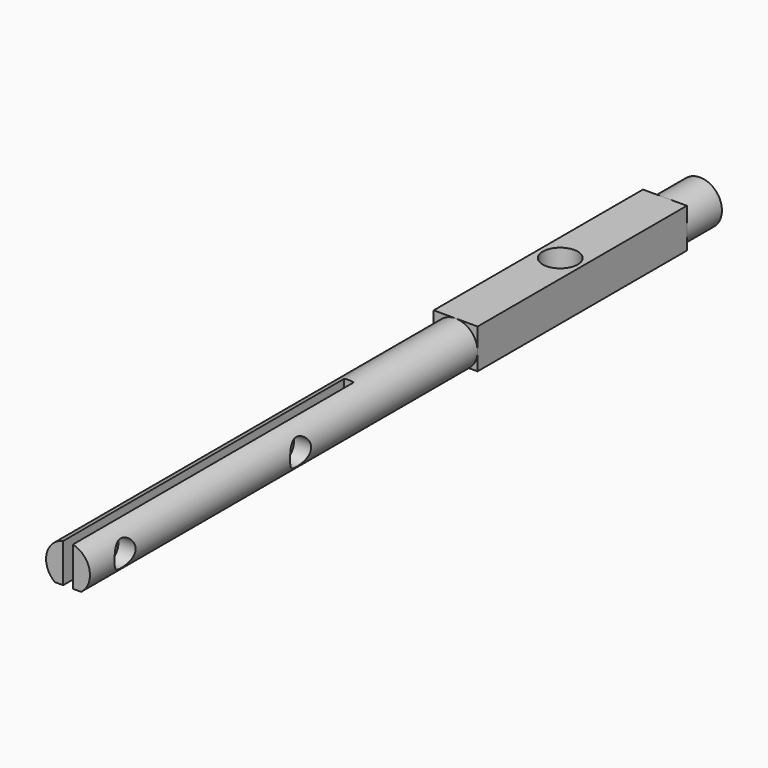
from build123d import *

# Parameters (mm, degrees)
PAD_DEPTH            = 90
SKETCH004_W          = 5
SKETCH004_H          = 29.8
PAD001_DEPTH         = 4.5
SKETCH001_R          = 2
POCKET_DEPTH         = 4.501
SKETCH005_W          = 1.1
SKETCH005_H          = 40
POCKET001_DEPTH      = 4.501
SKETCH006_R          = 1.5
POCKET002_DEPTH      = 1.951
POCKET002_DEPTH_BACK = -3.051
SKETCH007_R          = 2
POCKET003_DEPTH      = 5


with BuildPart() as part:
    # Sketch → Pad (new body)
    with BuildSketch(Plane.XZ):
        with BuildLine():
            Line((-1.5, 0), (1.5, 0))
            ThreePointArc((1.5, 0), (0, 4.5), (-1.5, 0))
        make_face()
    extrude(amount=PAD_DEPTH)

    # Sketch004 → Pad001 (new body)
    with BuildSketch(Plane(origin=(0, 0, 0), x_dir=(1, 0, 0), z_dir=(0, 0, -1))):
        with Locations((0, 19.9)):
            Rectangle(SKETCH004_W, SKETCH004_H)
    extrude(amount=-PAD001_DEPTH)

    # Sketch001 → Pocket (cut, through all)
    with BuildSketch(Plane(origin=(0, 0, 0), x_dir=(1, 0, 0), z_dir=(0, 0, -1))):
        with Locations((0, 19.9)):
            Circle(SKETCH001_R)
    extrude(amount=-POCKET_DEPTH, mode=Mode.SUBTRACT)

    # Sketch005 → Pocket001 (cut, through all)
    with BuildSketch(Plane(origin=(0, 0, 0), x_dir=(1, 0, 0), z_dir=(0, 0, -1))):
        with Locations((0, 70)):
            Rectangle(SKETCH005_W, SKETCH005_H)
    extrude(amount=-POCKET001_DEPTH, mode=Mode.SUBTRACT)

    # Sketch006 → Pocket002 (cut, two sides)
    with BuildSketch(Plane(origin=(-0.55, 0, 0), x_dir=(0, 0, 1), z_dir=(1, 0, 0))) as pocket002_sk:
        with Locations((2, 60)):
            Circle(SKETCH006_R)
        with Locations((2, 85)):
            Circle(SKETCH006_R)
    extrude(amount=-POCKET002_DEPTH, mode=Mode.SUBTRACT)
    extrude(pocket002_sk.sketch, amount=-POCKET002_DEPTH_BACK, mode=Mode.SUBTRACT)

    # Sketch007 → Pocket003 (cut)
    with BuildSketch(Plane(origin=(0, 0, 0), x_dir=(1, 0, 0), z_dir=(0, 1, 0))):
        with Locations((0, -2)):
            Circle(SKETCH007_R)
    extrude(amount=-POCKET003_DEPTH, mode=Mode.SUBTRACT)


solid = part.part
